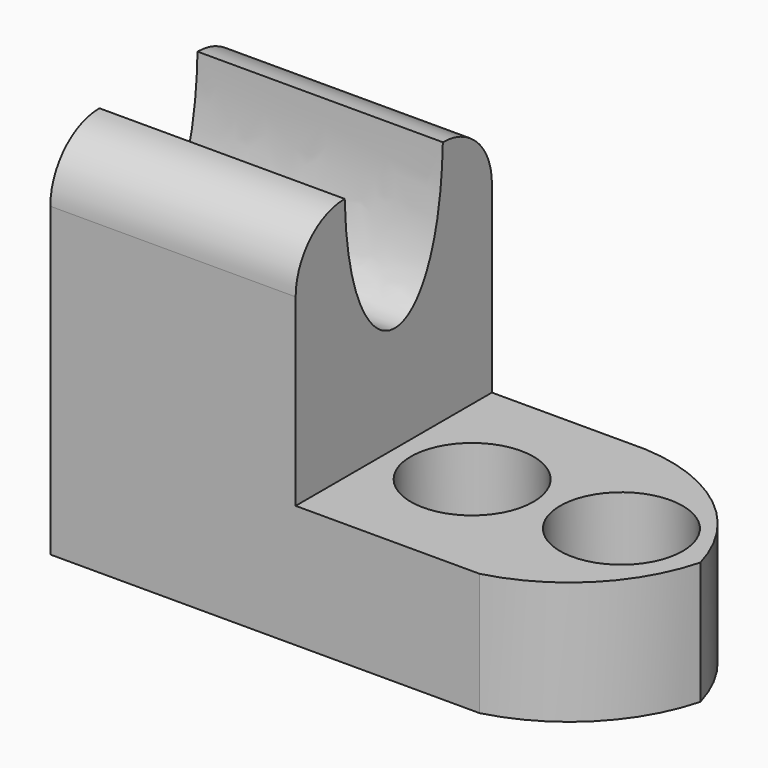
from build123d import *

# Parameters (mm, degrees)
F1_DEPTH = 25.4
F3_DEPTH = 25.4
F5_DEPTH = 25.4
F6_R     = 6.35
F7_DEPTH = 25.4
F9_DEPTH = 25.4


with BuildPart() as f1:
    # F0 (on Front) → F1 (new body)
    with BuildSketch(Plane.XZ):
        Polygon((-31.75, 38.1), (-57.15, 38.1), (-57.15, 0), (0, 0), (0, 12.7), (-31.75, 12.7), align=None)
    extrude(amount=F1_DEPTH)

    # F2 (on face) → F3 (cut)
    with BuildSketch(Plane.YZ.offset(-31.75)):
        with BuildLine():
            Line((-6.35, 38.1), (-19.05, 38.1))
            add(Edge.make_bspline(
                [(-19.05, 38.1), (-18.5709856451, 19.3447768688), (-6.809361279, 18.4162277728), (-6.35, 38.1)],
                knots=[0, 0, 0, 0, 12.7, 12.7, 12.7, 12.7], degree=3))
        make_face()
    extrude(amount=-F3_DEPTH, mode=Mode.SUBTRACT)

    # F4 (on face) → F5 (cut)
    with BuildSketch(Plane.XY.offset(12.7)):
        with BuildLine():
            Line((0, -25.4), (0, -12.7))
            ThreePointArc((0, -12.7), (-4.6286120427, -20.7713879573), (-12.7, -25.4))
            Line((-12.7, -25.4), (0, -25.4))
        make_face()
        with BuildLine():
            ThreePointArc((-15.875, 0), (-5.8860880189, -3.7857350236), (0, -12.7))
            Line((0, -12.7), (0, 0))
            Line((0, 0), (-15.875, 0))
        make_face()
    extrude(amount=-F5_DEPTH, mode=Mode.SUBTRACT)

    # F6 (on face) → F7 (cut)
    with BuildSketch(Plane.XY.offset(12.7)):
        with Locations((-23.5232505947, -12.8449322656)):
            Circle(F6_R)
        with Locations((-8.7082285261, -12.0423395505)):
            Circle(F6_R)
    extrude(amount=-F7_DEPTH, mode=Mode.SUBTRACT)

    # F8 (on face) → F9 (cut)
    with BuildSketch(Plane(origin=(-57.15, 0, 0), x_dir=(0, -1, 0), z_dir=(-1, 0, 0))):
        with BuildLine():
            Line((25.4, 38.1), (19.05, 38.1))
            ThreePointArc((19.05, 38.1), (23.5401280605, 36.2401280605), (25.4, 31.75))
            Line((25.4, 31.75), (25.4, 38.1))
        make_face()
        with BuildLine():
            ThreePointArc((0, 31.75), (1.8598719395, 36.2401280605), (6.35, 38.1))
            Line((6.35, 38.1), (0, 38.1))
            Line((0, 38.1), (0, 31.75))
        make_face()
    extrude(amount=-F9_DEPTH, mode=Mode.SUBTRACT)


solid = f1.part
